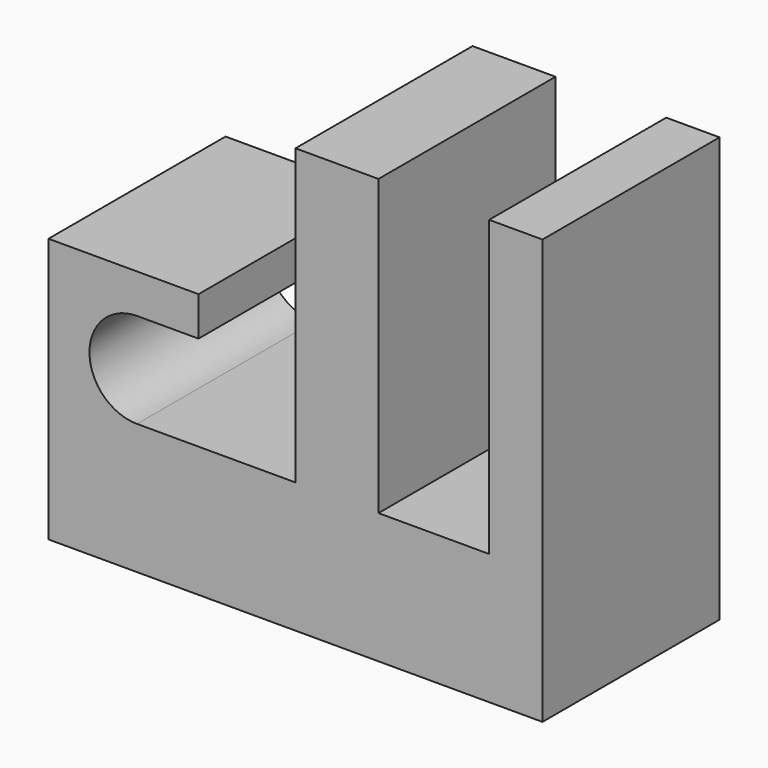
from build123d import *

# Parameters (mm, degrees)
F0_W     = 24.481366
F0_H     = 135.034486
F0_W_2   = 38.1
F0_W_3   = 40.646148
F0_H_2   = 59.899588
F0_H_3   = 43.641134
F0_H_4   = 17.969872
F0_W_4   = 28.23838
F1_DEPTH = 50.8
F3_DEPTH = 176.784


with BuildPart() as f1:
    # F0 (on Front) → F1 (new body, symmetric)
    with BuildSketch(Plane.XZ):
        with Locations((101.140683, 97.467037)):
            Rectangle(F0_W, F0_H)
        with Locations((19.05, 97.467037)):
            Rectangle(F0_W_2, F0_H)
        Polygon((38.1, 29.949794), (0, 29.949794), (-72.735218, 29.949794), (-72.735218, -29.949794), (113.381366, -29.949794), (113.381366, 29.949794), (88.9, 29.949794), align=None)
        with Locations((-93.058292, 0)):
            Rectangle(F0_W_3, F0_H_2)
        with Locations((-93.058292, 51.770361)):
            Rectangle(F0_W_3, F0_H_3)
        with Locations((-93.058292, 82.575864)):
            Rectangle(F0_W_3, F0_H_4)
        with Locations((-58.616028, 82.575864)):
            Rectangle(F0_W_4, F0_H_4)
    extrude(amount=F1_DEPTH, both=True)

    # F2 (on face) → F3 (cut)
    with BuildSketch(Plane.XZ.offset(50.8)):
        with BuildLine():
            Line((-72.735218, 29.949794), (-72.735218, 73.590928))
            ThreePointArc((-72.735218, 73.590928), (-94.555785, 51.770361), (-72.735218, 29.949794))
        make_face()
    extrude(amount=-F3_DEPTH, mode=Mode.SUBTRACT)


solid = f1.part
